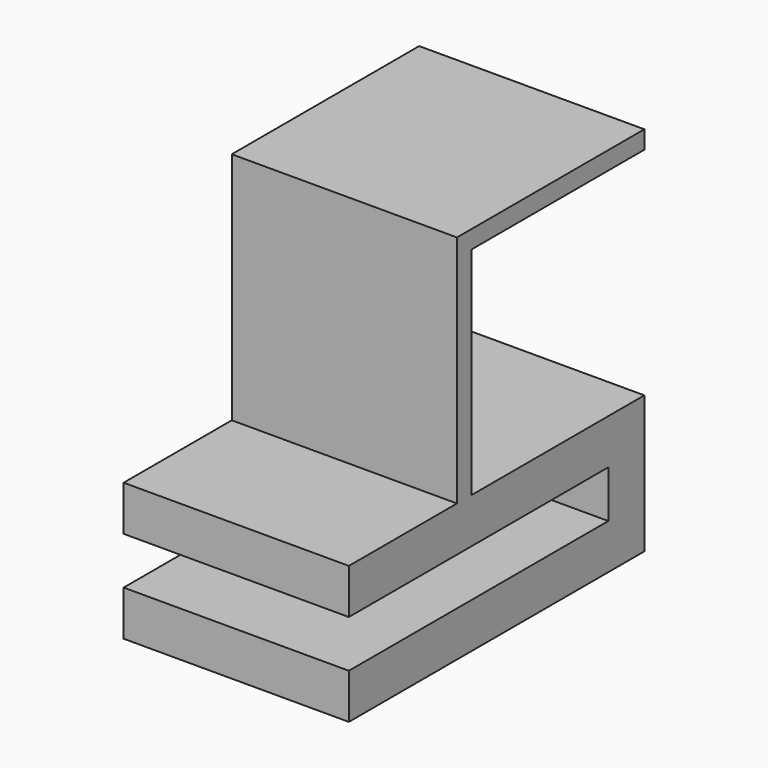
from build123d import *

# Parameters (mm, degrees)
F0_W      = 25
F0_H      = 5
F0_W_2    = 6.9
F0_H_2    = 2
F1_DEPTH  = 40
F2_W      = 25
F2_H      = 5
F3_DEPTH  = 1
F4_W      = 25
F4_H      = 5
F5_DEPTH  = 10.25
F6_W      = 25
F6_H      = 5
F7_DEPTH  = 36
F8_W      = 25
F8_H      = 2
F9_DEPTH  = 26
F10_W     = 25
F10_H     = 2
F11_DEPTH = 24


with BuildPart() as f1:
    # F0 (on Front) → F1 (new body)
    with BuildSketch(Plane.XZ):
        with Locations((0.35389, 1)):
            Rectangle(F0_W, F0_H)
        with Locations((-6.44611, 1)):
            Rectangle(F0_W_2, F0_H_2, mode=Mode.SUBTRACT)
        with Locations((6.95389, 1)):
            Rectangle(F0_W_2, F0_H_2, mode=Mode.SUBTRACT)
    extrude(amount=F1_DEPTH)

    # F2 (on face) → F3 (join)
    with BuildSketch(Plane.XZ.offset(40)):
        with Locations((0.35389, 1)):
            Rectangle(F2_W, F2_H)
    extrude(amount=F3_DEPTH)

    # F4 (on face) → F5 (join)
    with BuildSketch(Plane(origin=(0, 0, -1.5), x_dir=(1, 0, 0), z_dir=(0, 0, -1))):
        with Locations((0.35389, 2.5)):
            Rectangle(F4_W, F4_H)
    extrude(amount=F5_DEPTH)

    # F6 (on face) → F7 (join)
    with BuildSketch(Plane.XZ.offset(5)):
        with Locations((0.35389, -9.25)):
            Rectangle(F6_W, F6_H)
    extrude(amount=F7_DEPTH)

    # F8 (on face) → F9 (join)
    with BuildSketch(Plane.XY.offset(3.5)):
        with Locations((0.35389, -25)):
            Rectangle(F8_W, F8_H)
    extrude(amount=F9_DEPTH)

    # F10 (on face) → F11 (join)
    with BuildSketch(Plane(origin=(0, -24, 0), x_dir=(-1, 0, 0), z_dir=(0, 1, 0))):
        with Locations((-0.35389, 28.5)):
            Rectangle(F10_W, F10_H)
    extrude(amount=F11_DEPTH)


solid = f1.part
